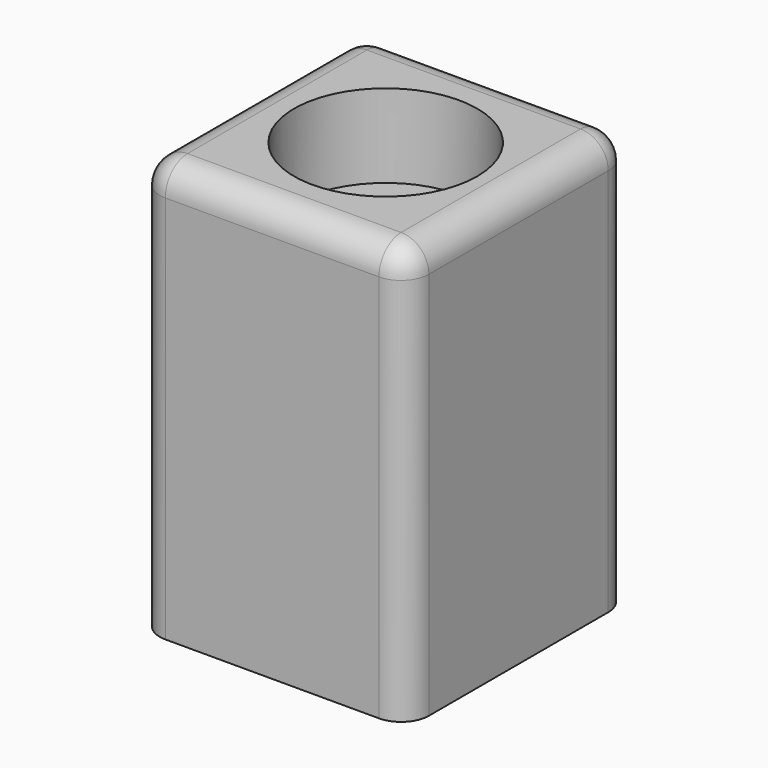
from build123d import *

# Parameters (mm, degrees)
F0_W     = 48.470514
F0_H     = 50.374654
F0_R     = 16.5
F1_DEPTH = 75
F2_DEPTH = 60
F3_R     = 5
F4_R     = 5


with BuildPart() as f1:
    # F0 (on Top) → F1 (new body)
    with BuildSketch(Plane.XY):
        with Locations((-0.40803, 0.136011)):
            Rectangle(F0_W, F0_H)
        Circle(F0_R, mode=Mode.SUBTRACT)
    extrude(amount=F1_DEPTH)

    # F0 (on Top) → F2 (join)
    with BuildSketch(Plane.XY):
        Circle(F0_R)
    extrude(amount=F2_DEPTH)

    # F3
    f3_edges = [f1.edges().sort_by_distance(p)[0] for p in [
        (23.827227, 25.323338, 37.5),
        (-24.643287, 25.323338, 37.5),
        (23.827227, -25.051316, 37.5),
        (-24.643287, -25.051316, 37.5),
    ]]
    fillet(f3_edges, radius=F3_R)

    # F4
    f4_edges = [f1.edges().sort_by_distance(p)[0] for p in [
        (-0.40803, 25.323338, 75),
        (23.827227, 0.136011, 75),
        (-0.40803, -25.051316, 75),
        (-24.643287, 0.136011, 75),
    ]]
    fillet(f4_edges, radius=F4_R)


solid = f1.part
